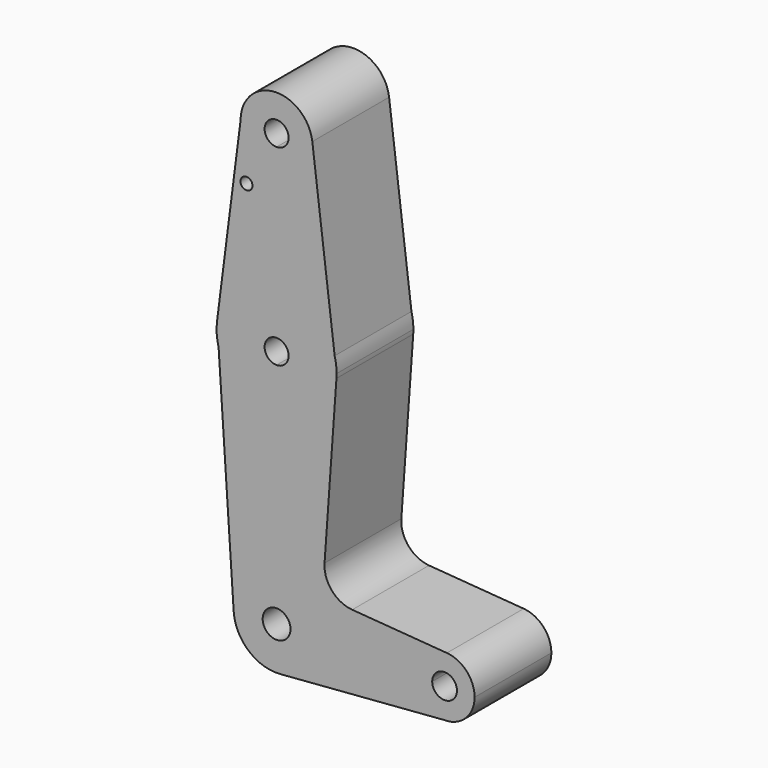
from build123d import *

# Parameters (mm, degrees)
F0_R     = 1.5875
F1_DEPTH = 25.4


with BuildPart() as f1:
    # F0 (on Front) → F1 (new body)
    with BuildSketch(Plane.XZ):
        with BuildLine():
            ThreePointArc((0, 64.4095919325), (6.7351920908, 67.1993998417), (9.525, 73.9345919325))
            ThreePointArc((9.525, 73.9345919325), (9.5071013085, 74.5182439773), (9.453472502, 75.0997025087))
            ThreePointArc((9.453472502, 75.0997025087), (-0.5836520448, 83.441693241), (-9.525, 73.9345919325))
            ThreePointArc((-9.525, 73.9345919325), (-6.7351920908, 67.1993998417), (0, 64.4095919325))
        make_face()
        with BuildLine():
            ThreePointArc((3.175, 73.9345919325), (2.2450640303, 71.6895279022), (0, 70.7595919325))
            ThreePointArc((0, 70.7595919325), (-2.2450640303, 76.1796559628), (3.175, 73.9345919325))
        make_face(mode=Mode.SUBTRACT)
        with BuildLine():
            ThreePointArc((9.453472502, 75.0997025087), (9.5071013085, 74.5182439773), (9.525, 73.9345919325))
            ThreePointArc((9.525, 73.9345919325), (6.7351920908, 67.1993998417), (0, 64.4095919325))
            Line((0, 64.4095919325), (0, 39.0095919325))
            ThreePointArc((0, 39.0095919325), (9.7152913363, 35.6896203774), (15.3670247656, 27.1183307359))
            Line((15.3670247656, 27.1183307359), (9.453472502, 75.0997025087))
        make_face()
        with BuildLine():
            Line((0, 39.0095919325), (0, 64.4095919325))
            ThreePointArc((0, 64.4095919325), (-6.7351920908, 67.1993998417), (-9.525, 73.9345919325))
            Line((-9.525, 73.9345919325), (-15.7474569047, 25.1428812629))
            ThreePointArc((-15.7474569047, 25.1428812629), (-10.4912828548, 35.0488107092), (0, 39.0095919325))
        make_face()
        with Locations((-7.963244058, 59.6597919325)):
            Circle(F0_R, mode=Mode.SUBTRACT)
        with BuildLine():
            ThreePointArc((15.875, 23.1345919325), (15.7474941364, 25.1425892988), (15.3670247656, 27.1183307359))
            ThreePointArc((15.3670247656, 27.1183307359), (9.7152913363, 35.6896203774), (0, 39.0095919325))
            Line((0, 39.0095919325), (0, 26.3095919325))
            ThreePointArc((0, 26.3095919325), (2.2450640303, 25.3796559628), (3.175, 23.1345919325))
            ThreePointArc((3.175, 23.1345919325), (2.2450640303, 20.8895279022), (0, 19.9595919325))
            Line((0, 19.9595919325), (0, 7.2595919325))
            ThreePointArc((0, 7.2595919325), (10.8179131836, 11.5161419777), (15.8346309214, 22.0031819354))
            ThreePointArc((15.8346309214, 22.0031819354), (15.8649045203, 22.568526953), (15.875, 23.1345919325))
        make_face()
        with BuildLine():
            Line((0, 26.3095919325), (0, 39.0095919325))
            ThreePointArc((0, 39.0095919325), (-10.4912828548, 35.0488107092), (-15.7474569047, 25.1428812629))
            Line((-15.7474569047, 25.1428812629), (-15.3443669943, 19.0644535389))
            ThreePointArc((-15.3443669943, 19.0644535389), (-9.6799322828, 10.5522814929), (0, 7.2595919325))
            Line((0, 7.2595919325), (0, 19.9595919325))
            ThreePointArc((0, 19.9595919325), (-3.175, 23.1345919325), (0, 26.3095919325))
        make_face()
        with BuildLine():
            Line((-15.3443669943, 19.0644535389), (-15.7474569047, 25.1428812629))
            ThreePointArc((-15.7474569047, 25.1428812629), (-15.840208308, 22.0841511874), (-15.3443669943, 19.0644535389))
        make_face()
        with BuildLine():
            ThreePointArc((0, 7.2595919325), (-9.6799322828, 10.5522814929), (-15.3443669943, 19.0644535389))
            Line((-15.3443669943, 19.0644535389), (-11.3533575641, -41.1183040615))
            ThreePointArc((-11.3533575641, -41.1183040615), (-8.3075944932, -32.5904833673), (0, -28.9871138036))
            Line((0, -28.9871138036), (0, 7.2595919325))
        make_face()
        with BuildLine():
            Line((12.6882461171, -22.0319973904), (15.8346309214, 22.0031819354))
            ThreePointArc((15.8346309214, 22.0031819354), (10.8179131836, 11.5161419777), (0, 7.2595919325))
            Line((0, 7.2595919325), (0, -28.9871138036))
            ThreePointArc((0, -28.9871138036), (8.0456690323, -32.3197390351), (11.3782942639, -40.3654080675))
            Line((11.3782942639, -40.3654080675), (36.5125, -40.3654080675))
            ThreePointArc((36.5125, -40.3654080675), (39.0567477079, -34.5416003814), (45.0584492193, -32.4512627695))
            Line((45.0584492193, -32.4512627695), (20.0088065446, -30.5254154474))
            ThreePointArc((20.0088065446, -30.5254154474), (14.5961946705, -27.7890582845), (12.6882461171, -22.0319973904))
        make_face()
        with BuildLine():
            ThreePointArc((0, -28.9871138036), (-8.3075944932, -32.5904833673), (-11.3533575641, -41.1183040615))
            ThreePointArc((-11.3533575641, -41.1183040615), (-7.4435612614, -48.9711605682), (0.8906603429, -51.7087895964))
            ThreePointArc((0.8906603429, -51.7087895964), (8.3546327216, -48.0897651568), (11.3782942639, -40.3654080675))
            Line((11.3782942639, -40.3654080675), (3.6840749284, -40.3654080675))
            ThreePointArc((3.6840749284, -40.3654080675), (-2.6050343642, -42.9704424317), (0, -36.6813331391))
            Line((0, -36.6813331391), (0, -28.9871138036))
        make_face()
        with BuildLine():
            ThreePointArc((11.3782942639, -40.3654080675), (8.3546327216, -48.0897651568), (0.8906603429, -51.7087895964))
            Line((0.8906603429, -51.7087895964), (44.2886029632, -48.3012670157))
            ThreePointArc((44.2886029632, -48.3012670157), (38.7805646124, -45.9207126168), (36.5125, -40.3654080675))
            Line((36.5125, -40.3654080675), (11.3782942639, -40.3654080675))
        make_face()
        with BuildLine():
            ThreePointArc((36.5125, -40.3654080675), (38.7805646124, -45.9207126168), (44.2886029632, -48.3012670157))
            ThreePointArc((44.2886029632, -48.3012670157), (50.0053045493, -46.0348434551), (52.3875, -40.3654080675))
            ThreePointArc((52.3875, -40.3654080675), (50.273807686, -34.9721557754), (45.0584492193, -32.4512627695))
            ThreePointArc((45.0584492193, -32.4512627695), (39.0567477079, -34.5416003814), (36.5125, -40.3654080675))
        make_face()
        with BuildLine():
            ThreePointArc((47.7259531041, -40.3654080675), (44.45, -43.6413611715), (41.1740468959, -40.3654080675))
            ThreePointArc((41.1740468959, -40.3654080675), (44.45, -37.0894549634), (47.7259531041, -40.3654080675))
        make_face(mode=Mode.SUBTRACT)
        with BuildLine():
            ThreePointArc((11.3782942639, -40.3654080675), (8.0456690323, -32.3197390351), (0, -28.9871138036))
            Line((0, -28.9871138036), (0, -36.6813331391))
            ThreePointArc((0, -36.6813331391), (2.6050343642, -37.7603737032), (3.6840749284, -40.3654080675))
            Line((3.6840749284, -40.3654080675), (11.3782942639, -40.3654080675))
        make_face()
    extrude(amount=F1_DEPTH)


solid = f1.part
